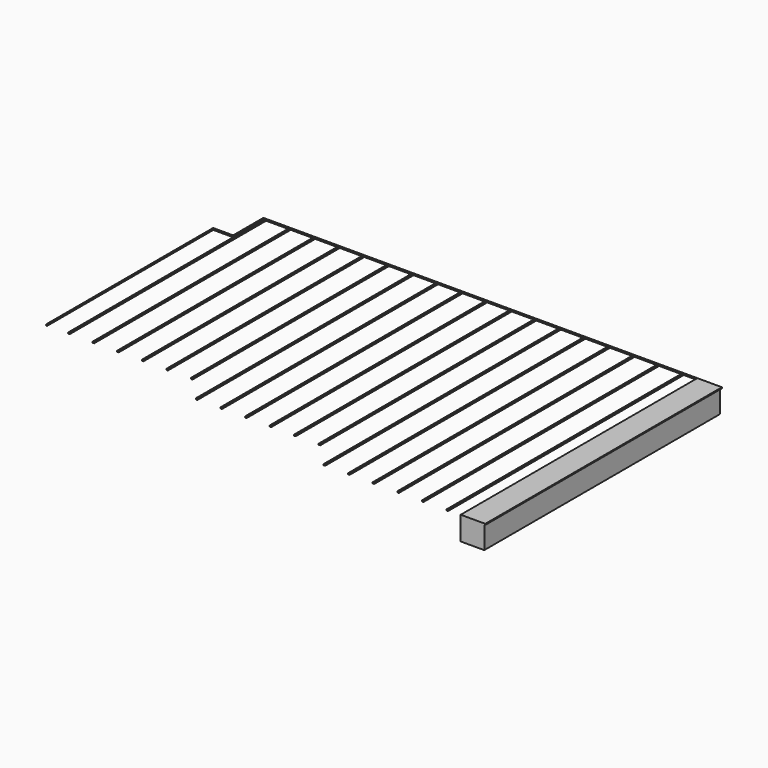
from build123d import *

# Parameters (mm, degrees)
F0_W     = 25.4
F0_H     = 914.4
F0_H_2   = 5156.2
F1_DEPTH = 25.4
F0_W_2   = 38.1
F0_H_3   = 6096
F0_H_4   = 6705.6
F0_H_5   = 7315.2
F2_DEPTH = 25.4
F0_W_3   = 292.1
F0_W_4   = 254
F3_DEPTH = 584.2


with BuildPart() as f1:
    # F0 (on Top) → F1 (new body)
    with BuildSketch(Plane.XY):
        Polygon((3415.6346725464, 1980.8369888306), (3390.2346725464, 1980.8369888306), (3390.2346725464, 1955.4369888306), (3390.2346725464, -5359.7630111694), (3415.6346725464, -5359.7630111694), align=None)
        Polygon((-7963.5653274536, 1955.4369888306), (-7938.1653274536, 1955.4369888306), (-7912.7653274536, 1955.4369888306), (-7874.6653274536, 1955.4369888306), (-7303.1653274536, 1955.4369888306), (-7265.0653274536, 1955.4369888306), (-6693.5653274536, 1955.4369888306), (-6655.4653274536, 1955.4369888306), (-6083.9653274536, 1955.4369888306), (-6045.8653274536, 1955.4369888306), (-5474.3653274536, 1955.4369888306), (-5436.2653274536, 1955.4369888306), (-4864.7653274536, 1955.4369888306), (-4826.6653274536, 1955.4369888306), (-4255.1653274536, 1955.4369888306), (-4217.0653274536, 1955.4369888306), (-3645.5653274536, 1955.4369888306), (-3607.4653274536, 1955.4369888306), (-3035.9653274536, 1955.4369888306), (-2997.8653274536, 1955.4369888306), (-2426.3653274536, 1955.4369888306), (-2388.2653274536, 1955.4369888306), (-1816.7653274536, 1955.4369888306), (-1778.6653274536, 1955.4369888306), (-1207.1653274536, 1955.4369888306), (-1169.0653274536, 1955.4369888306), (-597.5653274536, 1955.4369888306), (-559.4653274536, 1955.4369888306), (12.0346725464, 1955.4369888306), (50.1346725464, 1955.4369888306), (621.6346725464, 1955.4369888306), (659.7346725464, 1955.4369888306), (1231.2346725464, 1955.4369888306), (1269.3346725464, 1955.4369888306), (1840.8346725464, 1955.4369888306), (1878.9346725464, 1955.4369888306), (2450.4346725464, 1955.4369888306), (2488.5346725464, 1955.4369888306), (2806.0346725464, 1955.4369888306), (3060.0346725464, 1955.4369888306), (3098.1346725464, 1955.4369888306), (3390.2346725464, 1955.4369888306), (3390.2346725464, 1980.8369888306), (-7963.5653274536, 1980.8369888306), align=None)
        with Locations((-7950.8653274536, 1498.2369888306)):
            Rectangle(F0_W, F0_H)
        Polygon((-7938.1653274536, 1015.6369888306), (-7938.1653274536, 1041.0369888306), (-7963.5653274536, 1041.0369888306), (-8458.8653274536, 1041.0369888306), (-8458.8653274536, 1015.6369888306), (-8433.4653274536, 1015.6369888306), align=None)
        with Locations((-8446.1653274536, -1562.4630111694)):
            Rectangle(F0_W, F0_H_2)
    extrude(amount=-F1_DEPTH)

    # F0 (on Top) → F2 (join)
    with BuildSketch(Plane.XY):
        with Locations((-7284.1153274536, -1092.5630111694)):
            Rectangle(F0_W_2, F0_H_3)
        with Locations((-6674.5153274536, -1092.5630111694)):
            Rectangle(F0_W_2, F0_H_3)
        with Locations((-6064.9153274536, -1092.5630111694)):
            Rectangle(F0_W_2, F0_H_3)
        with Locations((-5455.3153274536, -1092.5630111694)):
            Rectangle(F0_W_2, F0_H_3)
        with Locations((-4845.7153274536, -1092.5630111694)):
            Rectangle(F0_W_2, F0_H_3)
        with Locations((-4236.1153274536, -1397.3630111694)):
            Rectangle(F0_W_2, F0_H_4)
        with Locations((-3626.5153274536, -1397.3630111694)):
            Rectangle(F0_W_2, F0_H_4)
        with Locations((-3016.9153274536, -1397.3630111694)):
            Rectangle(F0_W_2, F0_H_4)
        with Locations((-2407.3153274536, -1397.3630111694)):
            Rectangle(F0_W_2, F0_H_4)
        with Locations((-7893.7153274536, -1092.5630111694)):
            Rectangle(F0_W_2, F0_H_3)
        with Locations((-1797.7153274536, -1397.3630111694)):
            Rectangle(F0_W_2, F0_H_4)
        with Locations((-1188.1153274536, -1397.3630111694)):
            Rectangle(F0_W_2, F0_H_4)
        with Locations((-578.5153274536, -1702.1630111694)):
            Rectangle(F0_W_2, F0_H_5)
        with Locations((31.0846725464, -1702.1630111694)):
            Rectangle(F0_W_2, F0_H_5)
        with Locations((640.6846725464, -1702.1630111694)):
            Rectangle(F0_W_2, F0_H_5)
        with Locations((1250.2846725464, -1702.1630111694)):
            Rectangle(F0_W_2, F0_H_5)
        with Locations((1859.8846725464, -1702.1630111694)):
            Rectangle(F0_W_2, F0_H_5)
        with Locations((2469.4846725464, -1702.1630111694)):
            Rectangle(F0_W_2, F0_H_5)
        with Locations((3079.0846725464, -1702.1630111694)):
            Rectangle(F0_W_2, F0_H_5)
    extrude(amount=-F2_DEPTH)

    # F0 (on Top) → F3 (join)
    with BuildSketch(Plane.XY):
        with Locations((3244.1846725464, -1702.1630111694)):
            Rectangle(F0_W_3, F0_H_5)
        with Locations((2933.0346725464, -1702.1630111694)):
            Rectangle(F0_W_4, F0_H_5)
        with Locations((3079.0846725464, -1702.1630111694)):
            Rectangle(F0_W_2, F0_H_5)
    extrude(amount=-F3_DEPTH)


solid = f1.part
